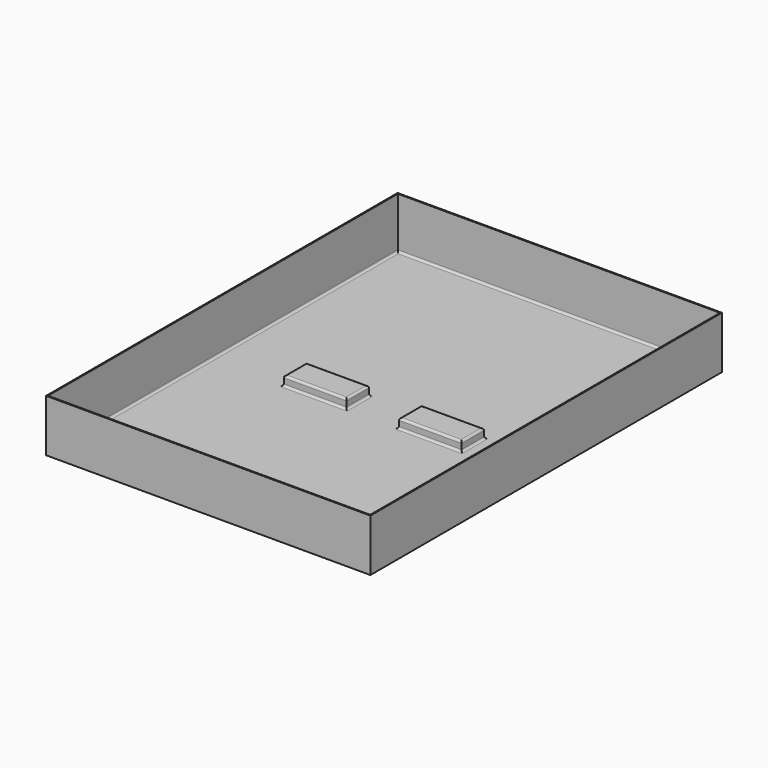
from build123d import *

# Parameters (mm, degrees)
SKETCH001_W  = 155
SKETCH001_H  = 210
PAD_DEPTH    = 25
THICKNESS_T  = -0.5
SKETCH_W     = 30
SKETCH_H     = 13.5
PAD001_DEPTH = 5
FILLET_R     = 1
FILLET001_R  = 1


with BuildPart() as part:
    # Sketch001 → Pad (new body)
    with BuildSketch(Plane.XY):
        with Locations((77.5, 105)):
            Rectangle(SKETCH001_W, SKETCH001_H)
    extrude(amount=PAD_DEPTH)

    # Thickness
    thickness_openings = [part.faces().sort_by_distance(p)[0] for p in [
        (77.5, 105, 25),
    ]]
    offset(amount=THICKNESS_T, openings=thickness_openings)

    # Sketch → Pad001 (join)
    with BuildSketch(Plane.XY):
        with Locations((50, 105)):
            Rectangle(SKETCH_W, SKETCH_H)
        with Locations((105, 105)):
            Rectangle(SKETCH_W, SKETCH_H)
    extrude(amount=PAD001_DEPTH)

    # Fillet
    fillet_edges = [part.edges().sort_by_distance(p)[0] for p in [
        (77.5, 0.5, 0.5),
        (0.5, 105, 0.5),
        (154.5, 105, 0.5),
        (77.5, 209.5, 0.5),
        (50, 98.25, 0.5),
        (65, 105, 0.5),
        (50, 111.75, 0.5),
        (35, 105, 0.5),
        (120, 105, 0.5),
        (105, 111.75, 0.5),
        (90, 105, 0.5),
        (105, 98.25, 0.5),
    ]]
    fillet(fillet_edges, radius=FILLET_R)

    # Fillet001
    fillet001_edges = [part.edges().sort_by_distance(p)[0] for p in [
        (35, 105, 5),
        (50, 98.25, 5),
        (65, 105, 5),
        (50, 111.75, 5),
        (120, 105, 5),
        (105, 98.25, 5),
        (90, 105, 5),
        (105, 111.75, 5),
    ]]
    fillet(fillet001_edges, radius=FILLET001_R)


solid = part.part
